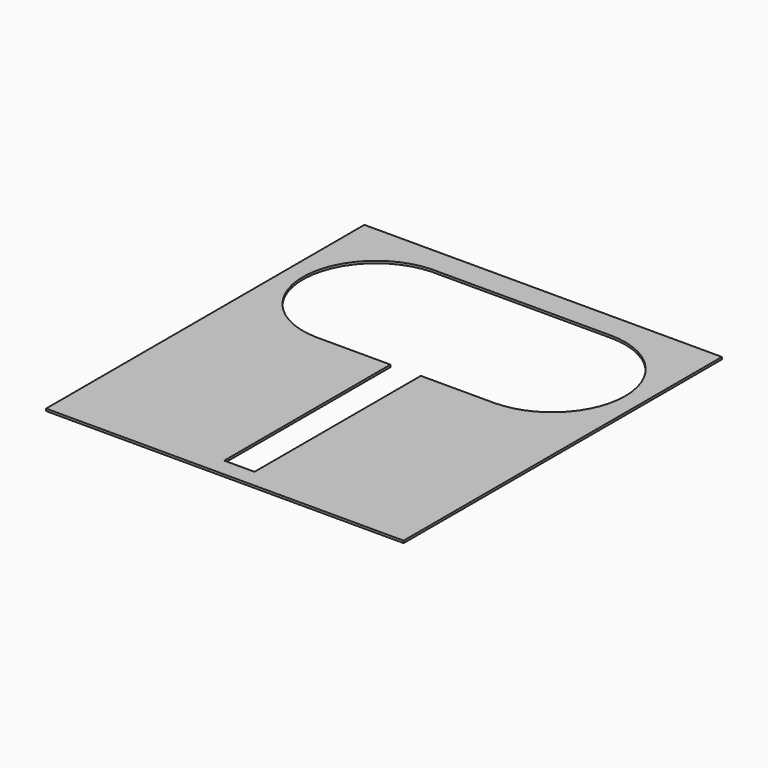
from build123d import *

# Parameters (mm, degrees)
F1_DEPTH = 1


with BuildPart() as f1:
    # F0 (on Top) → F1 (new body)
    with BuildSketch(Plane.XY):
        Polygon((79.570077, 44.001997), (0, 44.001997), (-79.570077, 44.001997), (-79.570077, -133.093104), (0, -133.093104), (79.570077, -133.093104), align=None)
        with BuildLine():
            Line((-37.90909, 32.472326), (39.238343, 32.499998))
            ThreePointArc((39.238343, 32.499998), (62.226849, 22.985092), (71.75, 0))
            ThreePointArc((71.75, 0), (62.230607, -22.981334), (39.248972, -32.5))
            Line((39.248972, -32.5), (6.75, -32.498972))
            Line((6.75, -32.498972), (6.75, -125))
            Line((6.75, -125), (-6.75, -125))
            Line((-6.75, -125), (-6.75, -32.498545))
            Line((-6.75, -32.498545), (-38.849285, -32.49753))
            ThreePointArc((-38.849285, -32.49753), (-39.251028, -32.5), (-39.652771, -32.497504))
            ThreePointArc((-39.652771, -32.497504), (-71.746442, -0.480895), (-40.614204, 32.471356))
            ThreePointArc((-40.614204, 32.471356), (-39.261657, 32.499998), (-37.90909, 32.472326))
        make_face(mode=Mode.SUBTRACT)
    extrude(amount=F1_DEPTH)


solid = f1.part
